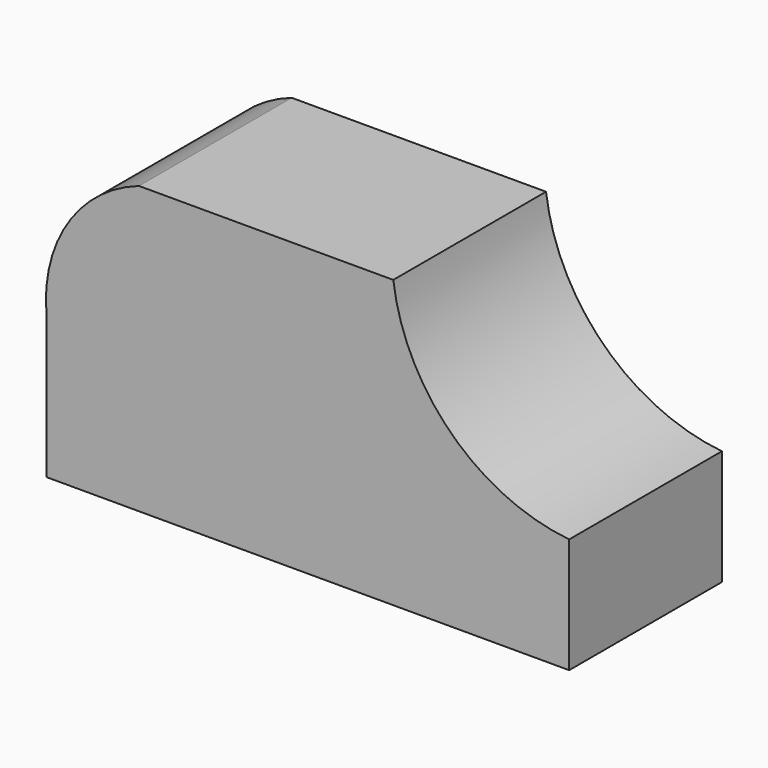
from build123d import *

# Parameters (mm, degrees)
F1_DEPTH = 25.4


with BuildPart() as f1:
    # F0 (on Front) → F1 (new body)
    with BuildSketch(Plane.XZ):
        with BuildLine():
            ThreePointArc((0, 22.537658), (-0.083312, 20.793829), (0, 19.05))
            Line((0, 19.05), (0, 22.537658))
        make_face()
        with BuildLine():
            Line((0, 19.05), (0, 0))
            Line((0, 0), (69.509163, 0))
            Line((69.509163, 0), (69.509163, 15.319245))
            ThreePointArc((69.509163, 15.319245), (53.830644, 22.622581), (46.110269, 38.1))
            Line((46.110269, 38.1), (12.284626, 38.1))
            ThreePointArc((12.284626, 38.1), (3.850977, 32.127568), (0, 22.537658))
            Line((0, 22.537658), (0, 19.05))
        make_face()
    extrude(amount=F1_DEPTH)


solid = f1.part
